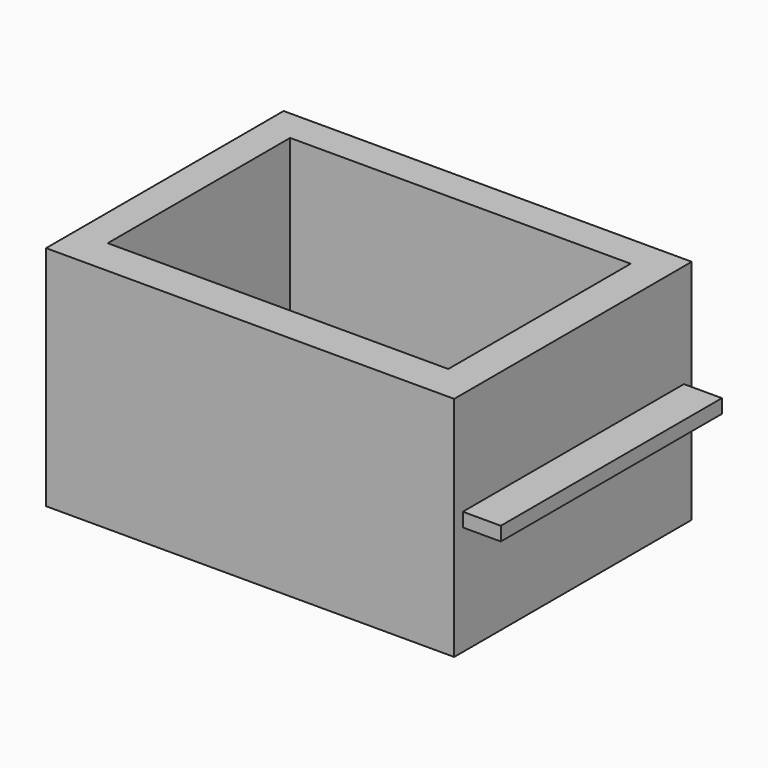
from build123d import *

# Parameters (mm, degrees)
F0_W     = 272.797018
F0_H     = 198.48334
F0_W_2   = 227.64441
F0_H_2   = 152.390061
F1_DEPTH = 151.892
F2_W     = 184.755966
F2_H     = 9.270906
F3_DEPTH = 25.4


with BuildPart() as f1:
    # F0 (on Top) → F1 (new body)
    with BuildSketch(Plane.XY):
        with Locations((83.833322, -47.768671)):
            Rectangle(F0_W, F0_H)
        with Locations((82.892643, -46.357654)):
            Rectangle(F0_W_2, F0_H_2, mode=Mode.SUBTRACT)
    extrude(amount=F1_DEPTH)

    # F2 (on face) → F3 (join)
    with BuildSketch(Plane.YZ.offset(220.231831)):
        with Locations((-47.437571, 77.932626)):
            Rectangle(F2_W, F2_H)
    extrude(amount=F3_DEPTH)


solid = f1.part
